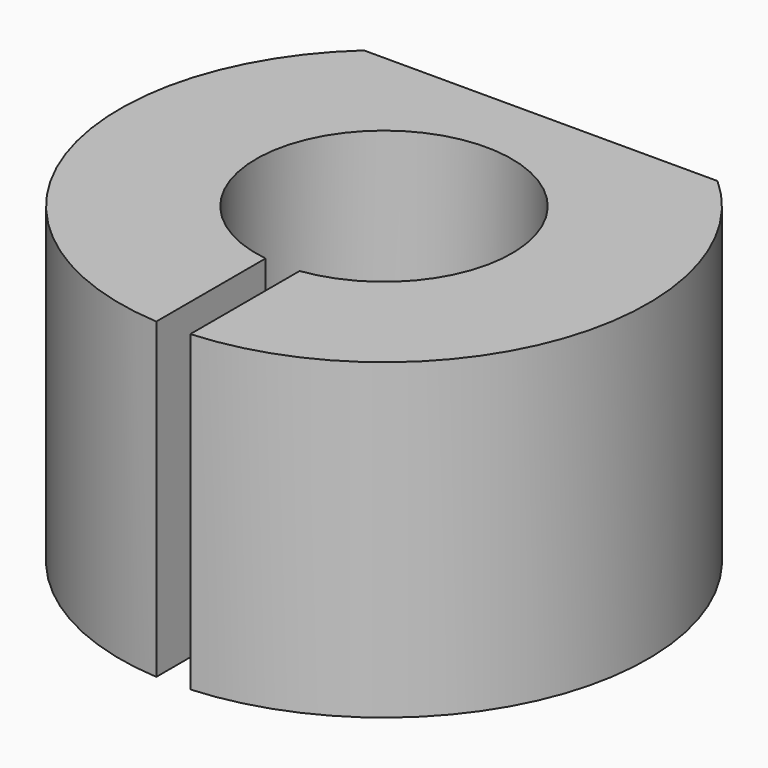
from build123d import *

# Parameters (mm, degrees)
PAD_DEPTH = 29.21


with BuildPart() as part:
    # Sketch → Pad (new body)
    with BuildSketch(Plane.XY):
        with BuildLine():
            ThreePointArc((1.5875, -11.83454), (0, 11.94054), (-1.5875, -11.83454))
            Line((-1.5875, -11.83454), (-1.5875, -24.589348))
            ThreePointArc((-16.504081, 18.296763), (-23.272966, -8.094767), (-1.5875, -24.589348))
            Line((-16.504081, 18.296763), (16.504081, 18.296763))
            ThreePointArc((1.5875, -24.589348), (23.272966, -8.094767), (16.504081, 18.296763))
            Line((1.5875, -11.83454), (1.5875, -24.589348))
        make_face()
    extrude(amount=PAD_DEPTH)


solid = part.part
